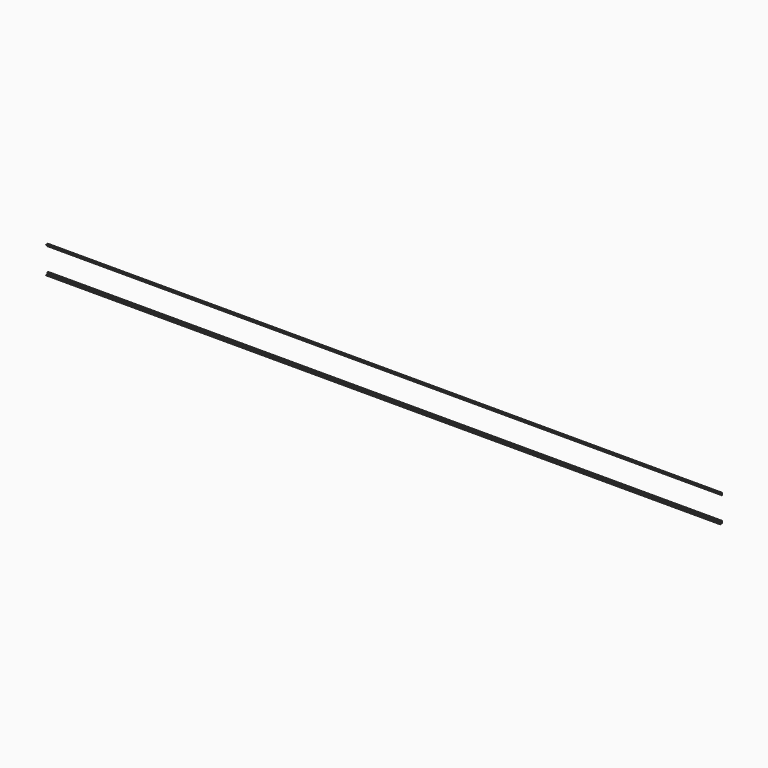
from build123d import *

# Parameters (mm, degrees)
EXTRUDE021_DEPTH = 15000
EXTRUDE022_DEPTH = 15000


with BuildPart() as extrude021:
    # AngleSteel002 → Extrude021 (new body)
    with BuildSketch(Plane(origin=(0, 43.196342, 28.796342), x_dir=(0, 1, 0), z_dir=(-1, 0, 0))):
        with BuildLine():
            Line((-14.396342, 14.396342), (-14.396342, -35.603658))
            Line((-14.396342, -35.603658), (-12.896342, -35.603658))
            ThreePointArc((-12.896342, -35.603658), (-9.714361, -34.285639), (-8.396342, -31.103658))
            Line((-8.396342, -31.103658), (-8.396342, 1.896342))
            ThreePointArc((-8.396342, 1.896342), (-6.492536, 6.492536), (-1.896342, 8.396342))
            Line((-1.896342, 8.396342), (31.103658, 8.396342))
            ThreePointArc((31.103658, 8.396342), (34.285639, 9.714361), (35.603658, 12.896342))
            Line((35.603658, 12.896342), (35.603658, 14.396342))
            Line((35.603658, 14.396342), (-14.396342, 14.396342))
        make_face()
    extrude(amount=-EXTRUDE021_DEPTH)


with BuildPart() as fusion001:
    # Mirror → Extrude022 (new body)
    with BuildSketch(Plane(origin=(0, 43.196342, 599.996342), x_dir=(0, -1, 0), z_dir=(1, 0, 0))):
        with BuildLine():
            Line((14.396342, -14.396342), (14.396342, 35.603658))
            Line((14.396342, 35.603658), (12.896342, 35.603658))
            ThreePointArc((12.896342, 35.603658), (9.714361, 34.285639), (8.396342, 31.103658))
            Line((8.396342, 31.103658), (8.396342, -1.896342))
            ThreePointArc((8.396342, -1.896342), (6.492536, -6.492536), (1.896342, -8.396342))
            Line((1.896342, -8.396342), (-31.103658, -8.396342))
            ThreePointArc((-31.103658, -8.396342), (-34.285639, -9.714361), (-35.603658, -12.896342))
            Line((-35.603658, -12.896342), (-35.603658, -14.396342))
            Line((-35.603658, -14.396342), (14.396342, -14.396342))
        make_face()
    extrude(amount=EXTRUDE022_DEPTH)

    # Fusion001: union Extrude021
    add(extrude021.part)


with BuildPart() as fusion_mirrored:
    # Mirror001: instance of Fusion001
    add(fusion001.part.mirror(Plane(origin=(0, 28.796342, 514.396342), x_dir=(-1, 0, 0), z_dir=(0, -1, 0))))


with BuildPart() as fusion_mirrored_1:
    # Mirror001 placement: moved
    add(fusion_mirrored.part.moved(Location((0, -6, 0))))


solid = fusion_mirrored_1.part
